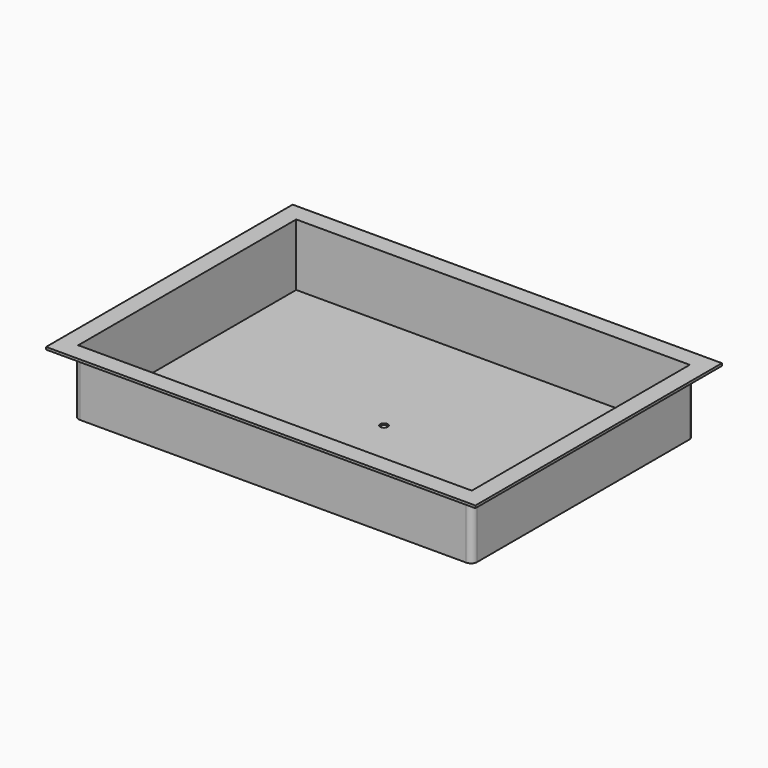
from build123d import *

# Parameters (mm, degrees)
F0_W     = 334.264
F0_H     = 232.664
F0_W_2   = 330.2
F0_H_2   = 228.6
F1_DEPTH = 53.34
F2_DEPTH = 1.27
F3_W     = 360.172
F3_H     = 258.572
F3_W_2   = 334.264
F3_H_2   = 232.664
F4_DEPTH = 2.032
F5_R     = 5.08
F6_R     = 3.175
F7_DEPTH = 1.271


with BuildPart() as f1:
    # F0 (on Top) → F1 (new body)
    with BuildSketch(Plane.XY):
        with Locations((167.132, 116.332)):
            Rectangle(F0_W, F0_H)
        with Locations((167.132, 116.332)):
            Rectangle(F0_W_2, F0_H_2, mode=Mode.SUBTRACT)
    extrude(amount=F1_DEPTH)

    # F0 (on Top) → F2 (join)
    with BuildSketch(Plane.XY):
        with Locations((167.132, 116.332)):
            Rectangle(F0_W_2, F0_H_2)
    extrude(amount=F2_DEPTH)

    # F3 (on face) → F4 (join)
    with BuildSketch(Plane.XY.offset(53.34)):
        with Locations((167.132, 116.332)):
            Rectangle(F3_W, F3_H)
        with Locations((167.132, 116.332)):
            Rectangle(F3_W_2, F3_H_2, mode=Mode.SUBTRACT)
    extrude(amount=-F4_DEPTH)

    # F5
    f5_edges = [f1.edges().sort_by_distance(p)[0] for p in [
        (334.264, 0, 25.654),
        (334.264, 232.664, 25.654),
        (0, 232.664, 25.654),
        (0, 0, 25.654),
    ]]
    fillet(f5_edges, radius=F5_R)

    # F6 (on face) → F7 (cut, through all)
    with BuildSketch(Plane.XY.offset(1.27)):
        with Locations((167.132, 116.332)):
            Circle(F6_R)
    extrude(amount=-F7_DEPTH, mode=Mode.SUBTRACT)


solid = f1.part
